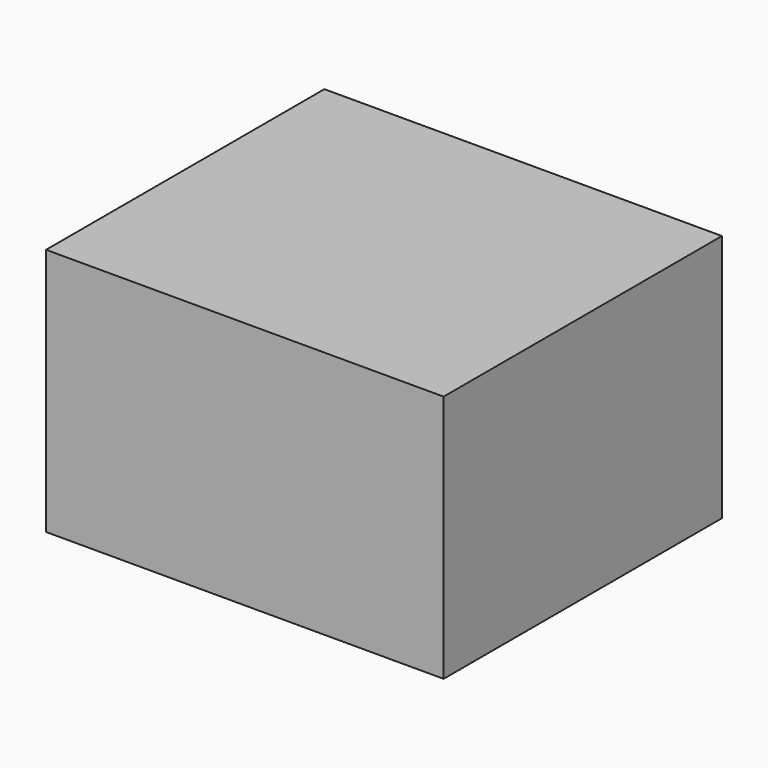
from build123d import *

# Parameters (mm, degrees)
F3_W     = 720
F3_H     = 630
F4_DEPTH = 450


with BuildPart() as f4:
    # F3 (on Top) → F4 (new body, through all)
    with BuildSketch(Plane.XY):
        with Locations((-360, 0)):
            Rectangle(F3_W, F3_H)
    extrude(amount=F4_DEPTH)


solid = f4.part
